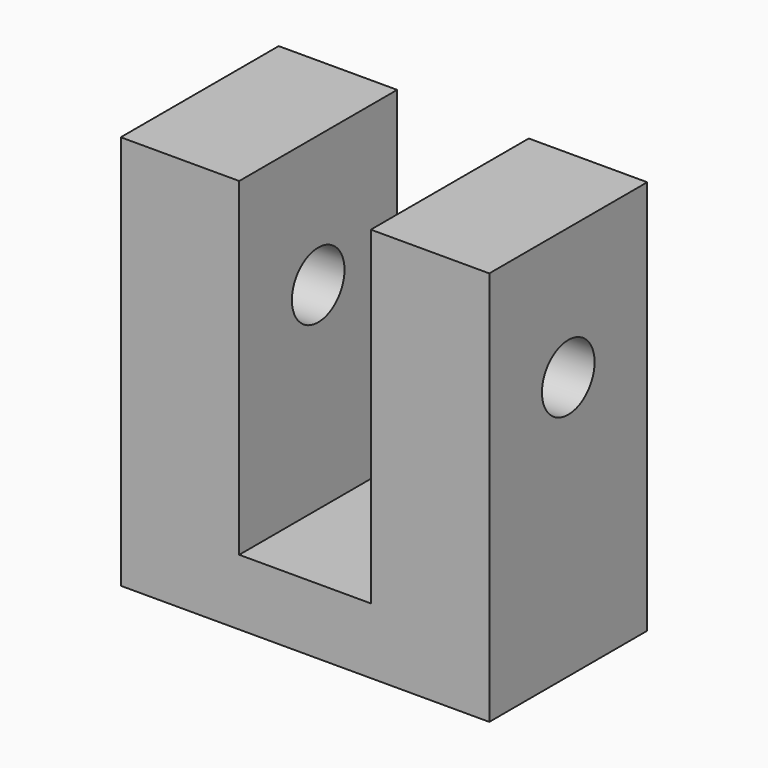
from build123d import *

# Parameters (mm, degrees)
F1_DEPTH = 9.525
F2_R     = 3.175
F3_DEPTH = 35.56
F4_R     = 3.175
F5_DEPTH = 12.7


with BuildPart() as f1:
    # F0 (on Front) → F1 (new body, symmetric)
    with BuildSketch(Plane.XZ):
        Polygon((-6.35, 12.7), (-17.78, 12.7), (-17.78, -25.4), (17.78, -25.4), (17.78, 12.7), (6.35, 12.7), (6.35, -19.05), (-6.35, -19.05), align=None)
    extrude(amount=F1_DEPTH, both=True)

    # F2 (on face) → F3 (cut, through all)
    with BuildSketch(Plane.YZ.offset(17.78)):
        Circle(F2_R)
    extrude(amount=-F3_DEPTH, mode=Mode.SUBTRACT)

    # F4 (on face) → F5 (cut)
    with BuildSketch(Plane(origin=(0, 0, -25.4), x_dir=(1, 0, 0), z_dir=(0, 0, -1))):
        with Locations((-13.0048, 3.175)):
            Circle(F4_R)
        with Locations((13.0048, 3.175)):
            Circle(F4_R)
    extrude(amount=-F5_DEPTH, mode=Mode.SUBTRACT)


solid = f1.part
